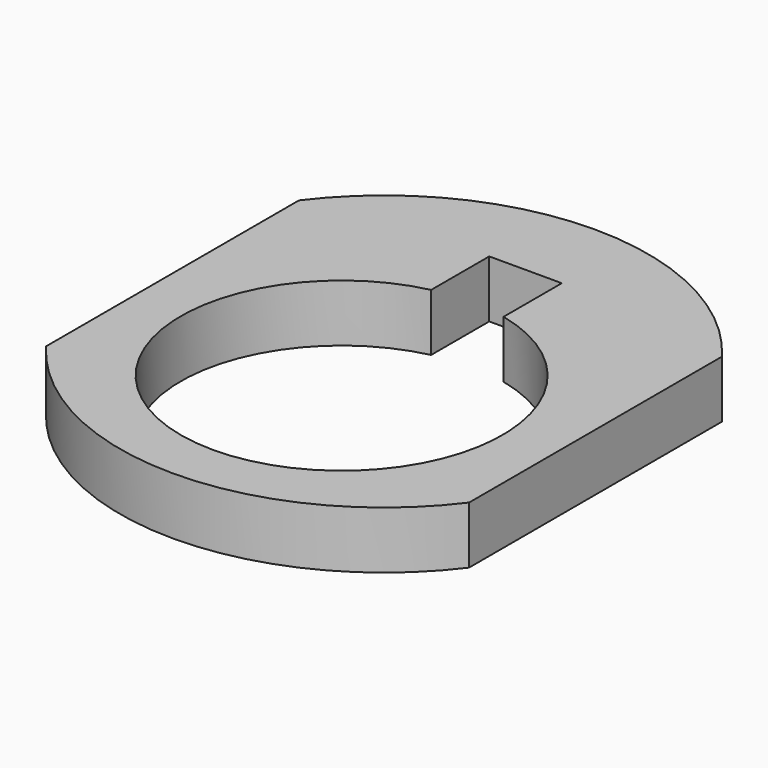
from build123d import *

# Parameters (mm, degrees)
F2_DEPTH = 3


with BuildPart() as f2:
    # F1 (on Top) → F2 (new body)
    with BuildSketch(Plane.XY):
        with BuildLine():
            Line((-11.075, 8.274962), (-11.075, -8.274962))
            ThreePointArc((-11.075, -8.274962), (0, -13.825), (11.075, -8.274962))
            Line((11.075, -8.274962), (11.075, 8.274962))
            ThreePointArc((11.075, 8.274962), (0, 13.825), (-11.075, 8.274962))
        make_face()
        with BuildLine():
            ThreePointArc((1.9, 5.453852), (-0.036302, -11.174922), (-1.9, 5.462146))
            Line((-1.9, 5.462146), (-1.9, 9.262146))
            Line((-1.9, 9.262146), (1.9, 9.262146))
            Line((1.9, 9.262146), (1.9, 5.453852))
        make_face(mode=Mode.SUBTRACT)
    extrude(amount=F2_DEPTH)


solid = f2.part
